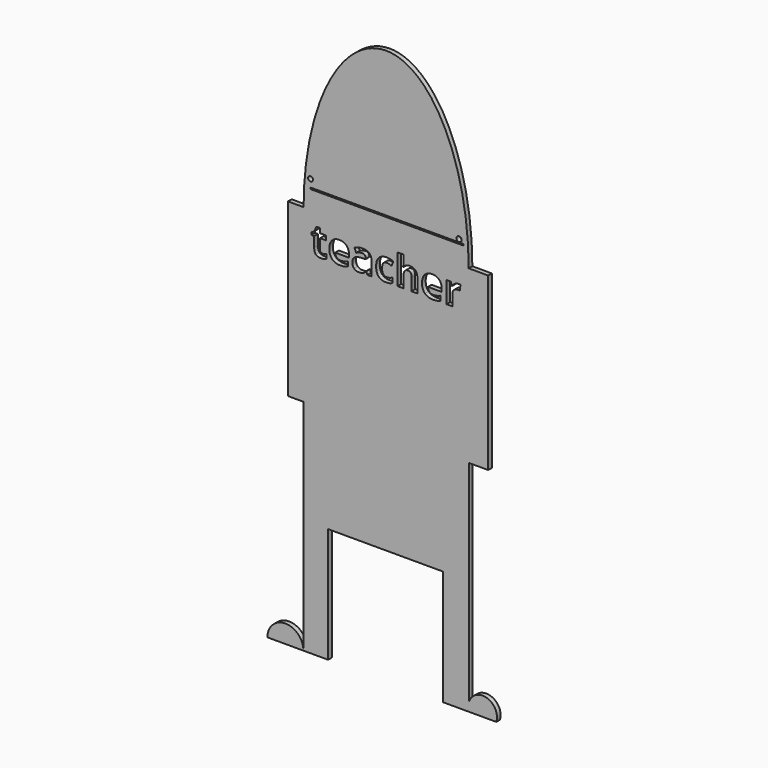
from build123d import *

# Parameters (mm, degrees)
F1_DEPTH = 25.4
F0_R     = 13.2542978972
F0_W     = 847.6788401604
F0_H     = 7.8411102295
F0_R_2   = 13.964211664
F0_W_2   = 107.0059419212
F0_H_2   = 947.878820613


with BuildPart() as f1:
    # F0 (on Front) → F1 (new body)
    with BuildSketch(Plane.XZ):
        with BuildLine():
            Line((-238.8629309115, -667.4451231956), (-39.2602690283, -667.4451231956))
            ThreePointArc((-39.2602690283, -667.4451231956), (-139.0615999699, -567.643792254), (-238.8629309115, -667.4451231956))
        make_face()
    extrude(amount=F1_DEPTH)


with BuildPart() as f1b:
    # F0 (on Front) → F1, piece 2 (new body)
    with BuildSketch(Plane.XZ):
        with BuildLine():
            Line((-38.3734516799, 1493.2061264068), (-39.2602690283, 1493.2061264068))
            Line((-39.2602690283, 1493.2061264068), (-39.2602690283, 545.3273057938))
            Line((-39.2602690283, 545.3273057938), (-39.2602690283, -30.7938735932))
            Line((-39.2602690283, -30.7938735932), (-39.2602690283, -667.4451231956))
            Line((-39.2602690283, -667.4451231956), (97.5829809904, -667.4451231956))
            Line((97.5829809904, -667.4451231956), (97.5829809904, -30.7938735932))
            Line((97.5829809904, -30.7938735932), (733.9537739754, -30.7938735932))
            Line((733.9537739754, -30.7938735932), (733.9537739754, -667.4451231956))
            Line((733.9537739754, -667.4451231956), (876.3899921838, -667.4451231956))
            Line((876.3899921838, -667.4451231956), (1028.4874468323, -667.4451231956))
            ThreePointArc((1028.4874468323, -667.4451231956), (976.2744348892, -567.5606804902), (876.3899921838, -619.7736924334))
            Line((876.3899921838, -619.7736924334), (876.3899921838, -30.7938735932))
            Line((876.3899921838, -30.7938735932), (876.3899921838, 545.3273057938))
            Line((876.3899921838, 545.3273057938), (876.3899921838, 1493.2061264068))
            Line((876.3899921838, 1493.2061264068), (875.5031748354, 1493.2061264068))
            Line((875.5031748354, 1493.2061264068), (-38.3734516799, 1493.2061264068))
        make_face()
        with BuildLine():
            add(Edge.make_bspline(
                [(56.6009150535, 1305.2021038048), (60.4646900931, 1301.9145057448), (66.836529632, 1301.9145057448)],
                knots=[0, 0, 0, 1, 1, 1], degree=2))
            add(Edge.make_bspline(
                [(66.836529632, 1301.9145057448), (75.3097205083, 1301.9145057448), (87.1721877351, 1305.6088169668)],
                knots=[0, 0, 0, 1, 1, 1], degree=2))
            Line((87.1721877351, 1305.6088169668), (87.1721877351, 1281.5788476417))
            add(Edge.make_bspline(
                [(87.1721877351, 1281.5788476417), (75.1063639273, 1276.1560054809), (57.5160196681, 1276.1560054809)],
                knots=[0, 0, 0, 1, 1, 1], degree=2))
            add(Edge.make_bspline(
                [(57.5160196681, 1276.1560054809), (38.1293589432, 1276.1560054809), (29.2833476684, 1285.9679605156)],
                knots=[0, 0, 0, 1, 1, 1], degree=2))
            add(Edge.make_bspline(
                [(29.2833476684, 1285.9679605156), (20.4373363936, 1295.7799155504), (20.4373363936, 1315.3699328563)],
                knots=[0, 0, 0, 1, 1, 1], degree=2))
            Line((20.4373363936, 1315.3699328563), (20.4373363936, 1372.4453465989))
            Line((20.4373363936, 1372.4453465989), (4.9822362352, 1372.4453465989))
            Line((4.9822362352, 1372.4453465989), (4.9822362352, 1386.1041302914))
            Line((4.9822362352, 1386.1041302914), (22.7759370754, 1396.9159218495))
            Line((22.7759370754, 1396.9159218495), (32.0964470393, 1421.9287813163))
            Line((32.0964470393, 1421.9287813163), (52.7371400139, 1421.9287813163))
            Line((52.7371400139, 1421.9287813163), (52.7371400139, 1396.7125652685))
            Line((52.7371400139, 1396.7125652685), (85.8842627219, 1396.7125652685))
            Line((85.8842627219, 1396.7125652685), (85.8842627219, 1372.4453465989))
            Line((85.8842627219, 1372.4453465989), (52.7371400139, 1372.4453465989))
            Line((52.7371400139, 1372.4453465989), (52.7371400139, 1315.3699328563))
            add(Edge.make_bspline(
                [(52.7371400139, 1315.3699328563), (52.7371400139, 1308.4897018648), (56.6009150535, 1305.2021038048)],
                knots=[0, 0, 0, 1, 1, 1], degree=2))
        make_face(mode=Mode.SUBTRACT)
        with BuildLine():
            add(Edge.make_bspline(
                [(188.2065157437, 1278.2234640547), (178.5809709083, 1276.1560054809), (164.6849378712, 1276.1560054809)],
                knots=[0, 0, 0, 1, 1, 1], degree=2))
            add(Edge.make_bspline(
                [(164.6849378712, 1276.1560054809), (136.1133382364, 1276.1560054809), (120.0142755715, 1291.9500332743)],
                knots=[0, 0, 0, 1, 1, 1], degree=2))
            add(Edge.make_bspline(
                [(120.0142755715, 1291.9500332743), (103.9152129066, 1307.7440610677), (103.9152129066, 1336.6545883375)],
                knots=[0, 0, 0, 1, 1, 1], degree=2))
            add(Edge.make_bspline(
                [(103.9152129066, 1336.6545883375), (103.9152129066, 1366.412434695), (118.7941360853, 1382.6640147956)],
                knots=[0, 0, 0, 1, 1, 1], degree=2))
            add(Edge.make_bspline(
                [(118.7941360853, 1382.6640147956), (133.6730592641, 1398.9155948963), (159.9399509805, 1398.9155948963)],
                knots=[0, 0, 0, 1, 1, 1], degree=2))
            add(Edge.make_bspline(
                [(159.9399509805, 1398.9155948963), (185.0205959743, 1398.9155948963), (199.0013609201, 1384.6297950789)],
                knots=[0, 0, 0, 1, 1, 1], degree=2))
            add(Edge.make_bspline(
                [(199.0013609201, 1384.6297950789), (212.982125866, 1370.3439952615), (212.982125866, 1345.1277792138)],
                knots=[0, 0, 0, 1, 1, 1], degree=2))
            Line((212.982125866, 1345.1277792138), (212.982125866, 1329.4354297109))
            Line((212.982125866, 1329.4354297109), (136.621729689, 1329.4354297109))
            add(Edge.make_bspline(
                [(136.621729689, 1329.4354297109), (137.1640139051, 1315.6749677278), (144.7898856937, 1307.9474176487)],
                knots=[0, 0, 0, 1, 1, 1], degree=2))
            add(Edge.make_bspline(
                [(144.7898856937, 1307.9474176487), (152.4157574824, 1300.2198675695), (166.1762194654, 1300.2198675695)],
                knots=[0, 0, 0, 1, 1, 1], degree=2))
            add(Edge.make_bspline(
                [(166.1762194654, 1300.2198675695), (176.886332733, 1300.2198675695), (186.410199278, 1302.4398435791)],
                knots=[0, 0, 0, 1, 1, 1], degree=2))
            add(Edge.make_bspline(
                [(186.410199278, 1302.4398435791), (195.9340658229, 1304.6598195887), (206.3052514555, 1309.5403775334)],
                knots=[0, 0, 0, 1, 1, 1], degree=2))
            Line((206.3052514555, 1309.5403775334), (206.3052514555, 1284.5275180667))
            add(Edge.make_bspline(
                [(206.3052514555, 1284.5275180667), (197.8320605792, 1280.2909226285), (188.2065157437, 1278.2234640547)],
                knots=[0, 0, 0, 1, 1, 1], degree=2))
        make_face(mode=Mode.SUBTRACT)
        with BuildLine():
            Line((336.9957475311, 1278.2912495817), (314.4570598002, 1278.2912495817))
            Line((314.4570598002, 1278.2912495817), (308.1868985518, 1294.3903122466))
            Line((308.1868985518, 1294.3903122466), (307.3395794641, 1294.3903122466))
            add(Edge.make_bspline(
                [(307.3395794641, 1294.3903122466), (299.2053162229, 1284.1208049046), (290.5626615291, 1280.1384051928)],
                knots=[0, 0, 0, 1, 1, 1], degree=2))
            add(Edge.make_bspline(
                [(290.5626615291, 1280.1384051928), (281.9200068353, 1276.1560054809), (268.0578665617, 1276.1560054809)],
                knots=[0, 0, 0, 1, 1, 1], degree=2))
            add(Edge.make_bspline(
                [(268.0578665617, 1276.1560054809), (251.0098065187, 1276.1560054809), (241.2147978657, 1285.9171213704)],
                knots=[0, 0, 0, 1, 1, 1], degree=2))
            add(Edge.make_bspline(
                [(241.2147978657, 1285.9171213704), (231.4197892127, 1295.6782372598), (231.4197892127, 1313.675294681)],
                knots=[0, 0, 0, 1, 1, 1], degree=2))
            add(Edge.make_bspline(
                [(231.4197892127, 1313.675294681), (231.4197892127, 1332.5196711899), (244.6040742162, 1341.4673607552)],
                knots=[0, 0, 0, 1, 1, 1], degree=2))
            add(Edge.make_bspline(
                [(244.6040742162, 1341.4673607552), (257.7883592197, 1350.4150503206), (284.3602858077, 1351.3640476987)],
                knots=[0, 0, 0, 1, 1, 1], degree=2))
            Line((284.3602858077, 1351.3640476987), (304.9331932553, 1352.0080102053))
            Line((304.9331932553, 1352.0080102053), (304.9331932553, 1357.1936030216))
            add(Edge.make_bspline(
                [(304.9331932553, 1357.1936030216), (304.9331932553, 1375.1906604428), (286.4955299085, 1375.1906604428)],
                knots=[0, 0, 0, 1, 1, 1], degree=2))
            add(Edge.make_bspline(
                [(286.4955299085, 1375.1906604428), (272.2944619999, 1375.1906604428), (253.111157856, 1366.615791276)],
                knots=[0, 0, 0, 1, 1, 1], degree=2))
            Line((253.111157856, 1366.615791276), (242.4349373519, 1388.4427309733))
            add(Edge.make_bspline(
                [(242.4349373519, 1388.4427309733), (262.8722737455, 1399.1528442409), (287.7495621582, 1399.1528442409)],
                knots=[0, 0, 0, 1, 1, 1], degree=2))
            add(Edge.make_bspline(
                [(287.7495621582, 1399.1528442409), (311.5761749023, 1399.1528442409), (324.2859612167, 1388.7647122266)],
                knots=[0, 0, 0, 1, 1, 1], degree=2))
            add(Edge.make_bspline(
                [(324.2859612167, 1388.7647122266), (336.9957475311, 1378.3765802123), (336.9957475311, 1357.1936030216)],
                knots=[0, 0, 0, 1, 1, 1], degree=2))
            Line((336.9957475311, 1357.1936030216), (336.9957475311, 1278.2912495817))
        make_face(mode=Mode.SUBTRACT)
        with BuildLine():
            add(Edge.make_bspline(
                [(438.5384669923, 1278.0709466189), (430.5397748051, 1276.1560054809), (418.3722727068, 1276.1560054809)],
                knots=[0, 0, 0, 1, 1, 1], degree=2))
            add(Edge.make_bspline(
                [(418.3722727068, 1276.1560054809), (363.09317543, 1276.1560054809), (363.09317543, 1336.8579449185)],
                knots=[0, 0, 0, 1, 1, 1], degree=2))
            add(Edge.make_bspline(
                [(363.09317543, 1336.8579449185), (363.09317543, 1367.0563972016), (378.1246160445, 1382.9859960489)],
                knots=[0, 0, 0, 1, 1, 1], degree=2))
            add(Edge.make_bspline(
                [(378.1246160445, 1382.9859960489), (393.156056659, 1398.9155948963), (421.2192648412, 1398.9155948963)],
                knots=[0, 0, 0, 1, 1, 1], degree=2))
            add(Edge.make_bspline(
                [(421.2192648412, 1398.9155948963), (441.7582795253, 1398.9155948963), (458.0945915348, 1390.8830099456)],
                knots=[0, 0, 0, 1, 1, 1], degree=2))
            Line((458.0945915348, 1390.8830099456), (448.5368322263, 1365.8701504789))
            add(Edge.make_bspline(
                [(448.5368322263, 1365.8701504789), (440.9109604377, 1368.9543919578), (434.3527106994, 1370.9201722411)],
                knots=[0, 0, 0, 1, 1, 1], degree=2))
            add(Edge.make_bspline(
                [(434.3527106994, 1370.9201722411), (427.7944609612, 1372.8859525244), (421.2192648412, 1372.8859525244)],
                knots=[0, 0, 0, 1, 1, 1], degree=2))
            add(Edge.make_bspline(
                [(421.2192648412, 1372.8859525244), (396.0030487934, 1372.8859525244), (396.0030487934, 1337.0613014996)],
                knots=[0, 0, 0, 1, 1, 1], degree=2))
            add(Edge.make_bspline(
                [(396.0030487934, 1337.0613014996), (396.0030487934, 1302.3212189068), (421.2192648412, 1302.3212189068)],
                knots=[0, 0, 0, 1, 1, 1], degree=2))
            add(Edge.make_bspline(
                [(421.2192648412, 1302.3212189068), (430.5397748051, 1302.3212189068), (438.4876278471, 1304.8123370245)],
                knots=[0, 0, 0, 1, 1, 1], degree=2))
            add(Edge.make_bspline(
                [(438.4876278471, 1304.8123370245), (446.435480889, 1307.3034551421), (454.3663875492, 1312.6246190124)],
                knots=[0, 0, 0, 1, 1, 1], degree=2))
            Line((454.3663875492, 1312.6246190124), (454.3663875492, 1284.9681239922))
            add(Edge.make_bspline(
                [(454.3663875492, 1284.9681239922), (446.5371591795, 1279.985887757), (438.5384669923, 1278.0709466189)],
                knots=[0, 0, 0, 1, 1, 1], degree=2))
        make_face(mode=Mode.SUBTRACT)
        with BuildLine():
            Line((591.1236882922, 1355.4989648463), (591.1236882922, 1278.2912495817))
            Line((591.1236882922, 1278.2912495817), (558.8238846719, 1278.2912495817))
            Line((558.8238846719, 1278.2912495817), (558.8238846719, 1347.4663798956))
            add(Edge.make_bspline(
                [(558.8238846719, 1347.4663798956), (558.8238846719, 1373.0893091055), (539.7422588185, 1373.0893091055)],
                knots=[0, 0, 0, 1, 1, 1], degree=2))
            add(Edge.make_bspline(
                [(539.7422588185, 1373.0893091055), (526.1851534165, 1373.0893091055), (520.1522415126, 1363.8704774321)],
                knots=[0, 0, 0, 1, 1, 1], degree=2))
            add(Edge.make_bspline(
                [(520.1522415126, 1363.8704774321), (514.1193296087, 1354.6516457587), (514.1193296087, 1334.0109527841)],
                knots=[0, 0, 0, 1, 1, 1], degree=2))
            Line((514.1193296087, 1334.0109527841), (514.1193296087, 1278.2912495817))
            Line((514.1193296087, 1278.2912495817), (481.8195259883, 1278.2912495817))
            Line((481.8195259883, 1278.2912495817), (481.8195259883, 1443.111758507))
            Line((481.8195259883, 1443.111758507), (514.1193296087, 1443.111758507))
            Line((514.1193296087, 1443.111758507), (514.1193296087, 1409.5240298734))
            add(Edge.make_bspline(
                [(514.1193296087, 1409.5240298734), (514.1193296087, 1405.5924693068), (513.3736888115, 1391.0863665267)],
                knots=[0, 0, 0, 1, 1, 1], degree=2))
            Line((513.3736888115, 1391.0863665267), (512.6280480144, 1381.5624999817))
            Line((512.6280480144, 1381.5624999817), (514.3226861897, 1381.5624999817))
            add(Edge.make_bspline(
                [(514.3226861897, 1381.5624999817), (525.1344777478, 1398.9155948963), (548.6560556203, 1398.9155948963)],
                knots=[0, 0, 0, 1, 1, 1], degree=2))
            add(Edge.make_bspline(
                [(548.6560556203, 1398.9155948963), (569.5339979395, 1398.9155948963), (580.3288431158, 1387.6970901762)],
                knots=[0, 0, 0, 1, 1, 1], degree=2))
            add(Edge.make_bspline(
                [(580.3288431158, 1387.6970901762), (591.1236882922, 1376.478585456), (591.1236882922, 1355.4989648463)],
                knots=[0, 0, 0, 1, 1, 1], degree=2))
        make_face(mode=Mode.SUBTRACT)
        with BuildLine():
            add(Edge.make_bspline(
                [(701.4785262648, 1278.2234640547), (691.8529814293, 1276.1560054809), (677.9569483922, 1276.1560054809)],
                knots=[0, 0, 0, 1, 1, 1], degree=2))
            add(Edge.make_bspline(
                [(677.9569483922, 1276.1560054809), (649.3853487575, 1276.1560054809), (633.2862860925, 1291.9500332743)],
                knots=[0, 0, 0, 1, 1, 1], degree=2))
            add(Edge.make_bspline(
                [(633.2862860925, 1291.9500332743), (617.1872234276, 1307.7440610677), (617.1872234276, 1336.6545883375)],
                knots=[0, 0, 0, 1, 1, 1], degree=2))
            add(Edge.make_bspline(
                [(617.1872234276, 1336.6545883375), (617.1872234276, 1366.412434695), (632.0661466064, 1382.6640147956)],
                knots=[0, 0, 0, 1, 1, 1], degree=2))
            add(Edge.make_bspline(
                [(632.0661466064, 1382.6640147956), (646.9450697851, 1398.9155948963), (673.2119615015, 1398.9155948963)],
                knots=[0, 0, 0, 1, 1, 1], degree=2))
            add(Edge.make_bspline(
                [(673.2119615015, 1398.9155948963), (698.2926064953, 1398.9155948963), (712.2733714411, 1384.6297950789)],
                knots=[0, 0, 0, 1, 1, 1], degree=2))
            add(Edge.make_bspline(
                [(712.2733714411, 1384.6297950789), (726.254136387, 1370.3439952615), (726.254136387, 1345.1277792138)],
                knots=[0, 0, 0, 1, 1, 1], degree=2))
            Line((726.254136387, 1345.1277792138), (726.254136387, 1329.4354297109))
            Line((726.254136387, 1329.4354297109), (649.89374021, 1329.4354297109))
            add(Edge.make_bspline(
                [(649.89374021, 1329.4354297109), (650.4360244261, 1315.6749677278), (658.0618962148, 1307.9474176487)],
                knots=[0, 0, 0, 1, 1, 1], degree=2))
            add(Edge.make_bspline(
                [(658.0618962148, 1307.9474176487), (665.6877680034, 1300.2198675695), (679.4482299865, 1300.2198675695)],
                knots=[0, 0, 0, 1, 1, 1], degree=2))
            add(Edge.make_bspline(
                [(679.4482299865, 1300.2198675695), (690.1583432541, 1300.2198675695), (699.682209799, 1302.4398435791)],
                knots=[0, 0, 0, 1, 1, 1], degree=2))
            add(Edge.make_bspline(
                [(699.682209799, 1302.4398435791), (709.2060763439, 1304.6598195887), (719.5772619765, 1309.5403775334)],
                knots=[0, 0, 0, 1, 1, 1], degree=2))
            Line((719.5772619765, 1309.5403775334), (719.5772619765, 1284.5275180667))
            add(Edge.make_bspline(
                [(719.5772619765, 1284.5275180667), (711.1040711002, 1280.2909226285), (701.4785262648, 1278.2234640547)],
                knots=[0, 0, 0, 1, 1, 1], degree=2))
        make_face(mode=Mode.SUBTRACT)
        with BuildLine():
            add(Edge.make_bspline(
                [(798.22541969, 1392.8318438472), (807.5967687992, 1398.9155948963), (818.6119169384, 1398.9155948963)],
                knots=[0, 0, 0, 1, 1, 1], degree=2))
            add(Edge.make_bspline(
                [(818.6119169384, 1398.9155948963), (825.1871130583, 1398.9155948963), (829.525386787, 1397.9665975182)],
                knots=[0, 0, 0, 1, 1, 1], degree=2))
            Line((829.525386787, 1397.9665975182), (827.0851078146, 1367.7003597082))
            add(Edge.make_bspline(
                [(827.0851078146, 1367.7003597082), (823.153547248, 1368.7510353768), (817.5612412697, 1368.7510353768)],
                knots=[0, 0, 0, 1, 1, 1], degree=2))
            add(Edge.make_bspline(
                [(817.5612412697, 1368.7510353768), (802.1061411114, 1368.7510353768), (793.4634864176, 1360.8031823349)],
                knots=[0, 0, 0, 1, 1, 1], degree=2))
            add(Edge.make_bspline(
                [(793.4634864176, 1360.8031823349), (784.8208317238, 1352.8553292929), (784.8208317238, 1338.5525830938)],
                knots=[0, 0, 0, 1, 1, 1], degree=2))
            Line((784.8208317238, 1338.5525830938), (784.8208317238, 1278.2912495817))
            Line((784.8208317238, 1278.2912495817), (752.5210281034, 1278.2912495817))
            Line((752.5210281034, 1278.2912495817), (752.5210281034, 1396.7125652685))
            Line((752.5210281034, 1396.7125652685), (776.9916033541, 1396.7125652685))
            Line((776.9916033541, 1396.7125652685), (781.7704830083, 1376.7836203275))
            Line((781.7704830083, 1376.7836203275), (783.3295501296, 1376.7836203275))
            add(Edge.make_bspline(
                [(783.3295501296, 1376.7836203275), (788.8540705809, 1386.748092798), (798.22541969, 1392.8318438472)],
                knots=[0, 0, 0, 1, 1, 1], degree=2))
        make_face(mode=Mode.SUBTRACT)
        Polygon((-39.2602690283, 545.3273057938), (-39.2602690283, 1493.2061264068), (-39.2602690283, 1494.092464447), (-124.8495522595, 1494.092464447), (-124.8495522595, 545.3273057938), align=None)
        with BuildLine():
            add(Edge.make_bspline(
                [(875.5031748354, 1493.2061264068), (875.5031748354, 2405.310501083), (418.5648615777, 2405.310501083), (-38.3734516799, 2405.310501083), (-38.3734516799, 1493.2061264068)],
                knots=[4.7123889804, 4.7123889804, 4.7123889804, 6.2831853072, 6.2831853072, 7.853981634, 7.853981634, 7.853981634], degree=2, weights=[1, 0.7071067812, 1, 0.7071067812, 1]))
            Line((-38.3734516799, 1493.2061264068), (875.5031748354, 1493.2061264068))
        make_face()
        with Locations((0, 1644.259095192)):
            Circle(F0_R, mode=Mode.SUBTRACT)
        with Locations((423.8394200802, 1598.3483791351)):
            Rectangle(F0_W, F0_H, mode=Mode.SUBTRACT)
        with Locations((822.3244547844, 1618.1877851486)):
            Circle(F0_R_2, mode=Mode.SUBTRACT)
        with Locations((929.8929631443, 1019.2667161003)):
            Rectangle(F0_W_2, F0_H_2)
    extrude(amount=F1_DEPTH)


solid = Compound([f1.part, f1b.part])
